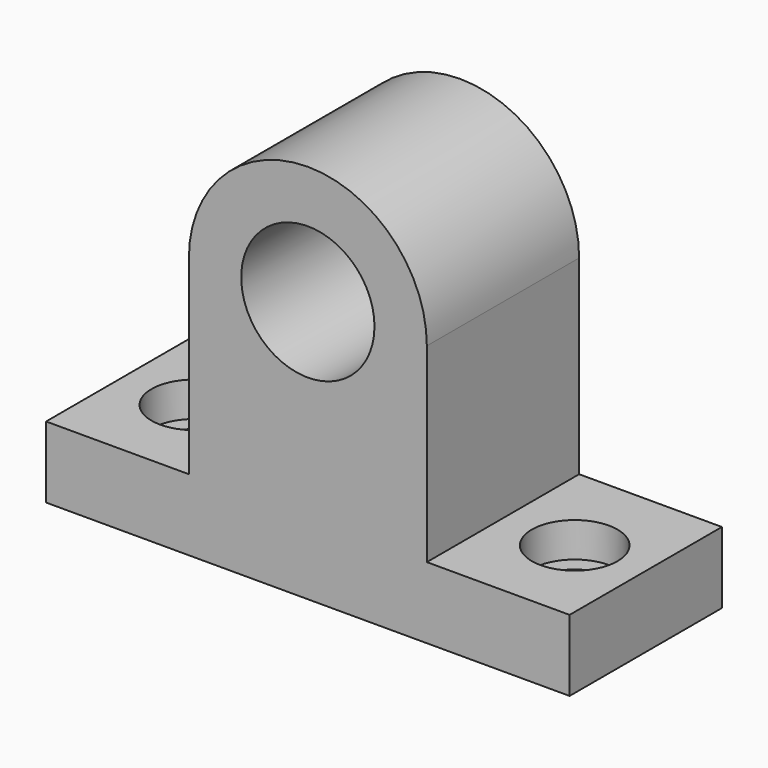
from build123d import *

# Parameters (mm, degrees)
F0_R     = 14
F1_DEPTH = 40
F2_R     = 9
F2_R_2   = 5.5
F3_DEPTH = 7.3
F4_DEPTH = 15


with BuildPart() as f1:
    # F0 (on Front) → F1 (new body)
    with BuildSketch(Plane.XZ):
        with BuildLine():
            Line((-55, -27.2687692195), (0, -27.2687692195))
            Line((0, -27.2687692195), (55, -27.2687692195))
            Line((55, -27.2687692195), (55, -12.2687692195))
            Line((55, -12.2687692195), (25, -12.2687692195))
            Line((25, -12.2687692195), (25, 27.7312307805))
            ThreePointArc((25, 27.7312307805), (0, 52.7312307805), (-25, 27.7312307805))
            Line((-25, 27.7312307805), (-25, -12.2687692195))
            Line((-25, -12.2687692195), (-55, -12.2687692195))
            Line((-55, -12.2687692195), (-55, -27.2687692195))
        make_face()
        with Locations((0, 27.7312307805)):
            Circle(F0_R, mode=Mode.SUBTRACT)
    extrude(amount=F1_DEPTH)

    # F2 (on face) → F3 (cut)
    with BuildSketch(Plane.XY.offset(-12.2687692195)):
        with Locations((40.221106261, -20.1945845038)):
            Circle(F2_R)
        with Locations((40.221106261, -20.1945845038)):
            Circle(F2_R_2, mode=Mode.SUBTRACT)
        with Locations((-39.6916903555, -20.1945845038)):
            Circle(F2_R)
        with Locations((-39.6916903555, -20.1945845038)):
            Circle(F2_R_2, mode=Mode.SUBTRACT)
    extrude(amount=-F3_DEPTH, mode=Mode.SUBTRACT)

    # F4 (cut): faces of the model
    f4_faces = [f1.faces().sort_by_distance(p)[0] for p in [
        (-39.6916903555, -20.1945845038, -12.2687692195),
        (40.221106261, -20.1945845038, -12.2687692195),
    ]]
    extrude(f4_faces, amount=-F4_DEPTH, mode=Mode.SUBTRACT)


solid = f1.part
